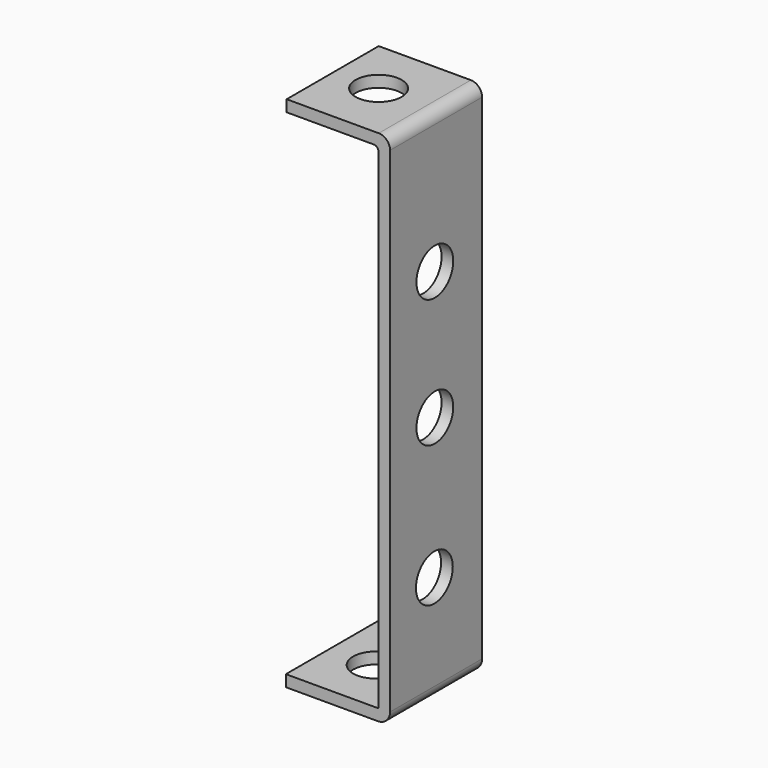
from build123d import *

# Parameters (mm, degrees)
CYLINDER030_R               = 2
CYLINDER030_DEPTH           = 10
CYLINDER030_PITCH_ANGLE     = 90
CYLINDER030_PLACEMENT_ANGLE = 7e-06
CYLINDER031_R               = 2
CYLINDER031_DEPTH           = 10
CYLINDER031_PITCH_ANGLE     = 90
CYLINDER031_PLACEMENT_ANGLE = 7e-06
CYLINDER026_R               = 2
CYLINDER026_DEPTH           = 2
CYLINDER026_ROLL_ANGLE      = -88.507054
CYLINDER026_PITCH_ANGLE     = -87.01751
CYLINDER026_PLACEMENT_ANGLE = -92.244015
CYLINDER028_R               = 2
CYLINDER028_DEPTH           = 2
CYLINDER028_PLACEMENT_ANGLE = 90.00001
CYLINDER029_R               = 2
CYLINDER029_DEPTH           = 2
CYLINDER029_ROLL_ANGLE      = 90
CYLINDER027_R               = 2
CYLINDER027_DEPTH           = 2
CYLINDER027_ROLL_ANGLE      = 90
CYLINDER025_R               = 2
CYLINDER025_DEPTH           = 2
CYLINDER025_ROLL_ANGLE      = -88.507054
CYLINDER025_PITCH_ANGLE     = -87.01751
CYLINDER025_PLACEMENT_ANGLE = -92.244015
PAD006_DEPTH                = 10
CUT033_PITCH_ANGLE          = 90
CUT033_PLACEMENT_ANGLE      = 90


with BuildPart() as cylinder030:
    # Cylinder030 → Cylinder030 (new body)
    with BuildSketch(Plane.XY):
        Circle(CYLINDER030_R)
    extrude(amount=CYLINDER030_DEPTH)


with BuildPart() as cylinder030_1:
    # Cylinder030 pitch: moved
    add(cylinder030.part.rotate(Axis((0, 0, 0), (0, 1, 0)), CYLINDER030_PITCH_ANGLE))


with BuildPart() as cylinder030_2:
    # Cylinder030 placement: moved
    add(cylinder030_1.part.moved(Location((15.49, 3.9, 4.87))).rotate(Axis((15.49, 3.9, 4.87), (0, 0, 1)), CYLINDER030_PLACEMENT_ANGLE))


with BuildPart() as cylinder031:
    # Cylinder031 → Cylinder031 (new body)
    with BuildSketch(Plane.XY):
        Circle(CYLINDER031_R)
    extrude(amount=CYLINDER031_DEPTH)


with BuildPart() as cylinder031_1:
    # Cylinder031 pitch: moved
    add(cylinder031.part.rotate(Axis((0, 0, 0), (0, 1, 0)), CYLINDER031_PITCH_ANGLE))


with BuildPart() as cylinder031_2:
    # Cylinder031 placement: moved
    add(cylinder031_1.part.moved(Location((-28.4147, 3.9, 5.14))).rotate(Axis((-28.4147, 3.9, 5.14), (0, 0, 1)), CYLINDER031_PLACEMENT_ANGLE))


with BuildPart() as cylinder026:
    # Cylinder026 → Cylinder026 (new body)
    with BuildSketch(Plane.XY):
        Circle(CYLINDER026_R)
    extrude(amount=CYLINDER026_DEPTH)


with BuildPart() as cylinder026_1:
    # Cylinder026 roll: moved
    add(cylinder026.part.rotate(Axis((0, 0, 0), (1, 0, 0)), CYLINDER026_ROLL_ANGLE))


with BuildPart() as cylinder026_2:
    # Cylinder026 pitch: moved
    add(cylinder026_1.part.rotate(Axis((0, 0, 0), (0, 1, 0)), CYLINDER026_PITCH_ANGLE))


with BuildPart() as cylinder026_3:
    # Cylinder026 placement: moved
    add(cylinder026_2.part.moved(Location((-26, 5.29, 4.9))).rotate(Axis((-26, 5.29, 4.9), (0, 0, 1)), CYLINDER026_PLACEMENT_ANGLE))


with BuildPart() as cylinder028:
    # Cylinder028 → Cylinder028 (new body)
    with BuildSketch(Plane.XY):
        Circle(CYLINDER028_R)
    extrude(amount=CYLINDER028_DEPTH)


with BuildPart() as cylinder028_1:
    # Cylinder028 placement: moved
    add(cylinder028.part.moved(Location((-11.1555, 0, 4.86401))).rotate(Axis((-11.1555, 0, 4.86401), (1, 0, 0)), CYLINDER028_PLACEMENT_ANGLE))


with BuildPart() as cylinder029:
    # Cylinder029 → Cylinder029 (new body)
    with BuildSketch(Plane.XY):
        Circle(CYLINDER029_R)
    extrude(amount=CYLINDER029_DEPTH)


with BuildPart() as cylinder029_1:
    # Cylinder029 roll: moved
    add(cylinder029.part.rotate(Axis((0, 0, 0), (1, 0, 0)), CYLINDER029_ROLL_ANGLE))


with BuildPart() as cylinder029_2:
    # Cylinder029 placement: moved
    add(cylinder029_1.part.moved(Location((0, 0, 4.86401))))


with BuildPart() as cylinder027:
    # Cylinder027 → Cylinder027 (new body)
    with BuildSketch(Plane.XY):
        Circle(CYLINDER027_R)
    extrude(amount=CYLINDER027_DEPTH)


with BuildPart() as cylinder027_1:
    # Cylinder027 roll: moved
    add(cylinder027.part.rotate(Axis((0, 0, 0), (1, 0, 0)), CYLINDER027_ROLL_ANGLE))


with BuildPart() as cylinder027_2:
    # Cylinder027 placement: moved
    add(cylinder027_1.part.moved(Location((12.2129, 0, 4.81114))))


with BuildPart() as cylinder025:
    # Cylinder025 → Cylinder025 (new body)
    with BuildSketch(Plane.XY):
        Circle(CYLINDER025_R)
    extrude(amount=CYLINDER025_DEPTH)


with BuildPart() as cylinder025_1:
    # Cylinder025 roll: moved
    add(cylinder025.part.rotate(Axis((0, 0, 0), (1, 0, 0)), CYLINDER025_ROLL_ANGLE))


with BuildPart() as cylinder025_2:
    # Cylinder025 pitch: moved
    add(cylinder025_1.part.rotate(Axis((0, 0, 0), (0, 1, 0)), CYLINDER025_PITCH_ANGLE))


with BuildPart() as cylinder025_3:
    # Cylinder025 placement: moved
    add(cylinder025_2.part.moved(Location((25, 5.38, 4.9))).rotate(Axis((25, 5.38, 4.9), (0, 0, 1)), CYLINDER025_PLACEMENT_ANGLE))


with BuildPart() as cut033:
    # Sketch007 → Pad006 (new body)
    with BuildSketch(Plane.XY):
        with BuildLine():
            Line((20.546084, -1.208272), (-22.415471, -1.208272))
            ThreePointArc((-23.400725, -0.223018), (-23.112151, -0.919698), (-22.415471, -1.208272))
            Line((-23.400725, 7.776982), (-23.400725, -0.223018))
            Line((-23.400725, 7.776982), (-22.400725, 7.776982))
            Line((-22.400725, 7.776982), (-22.400725, 0.197829))
            ThreePointArc((-22.400725, 0.197829), (-22.286166, -0.07874), (-22.009596, -0.193299))
            Line((-22.009596, -0.193299), (20.555186, -0.193299))
            ThreePointArc((20.555186, -0.193299), (20.586324, -0.180401), (20.599222, -0.149263))
            Line((20.599222, 7.844865), (20.599222, -0.149263))
            Line((21.599222, 7.844865), (20.599222, 7.844865))
            Line((21.599222, 7.844865), (21.599222, -0.155135))
            ThreePointArc((20.546084, -1.208272), (21.290765, -0.899815), (21.599222, -0.155135))
        make_face()
    extrude(amount=PAD006_DEPTH)

    # Cut005: cut Cylinder025
    add(cylinder025_3.part, mode=Mode.SUBTRACT)

    # Cut006: cut Cylinder027
    add(cylinder027_2.part, mode=Mode.SUBTRACT)

    # Cut007: cut Cylinder029
    add(cylinder029_2.part, mode=Mode.SUBTRACT)

    # Cut008: cut Cylinder028
    add(cylinder028_1.part, mode=Mode.SUBTRACT)

    # Cut009: cut Cylinder026
    add(cylinder026_3.part, mode=Mode.SUBTRACT)

    # Cut018: cut Cylinder031
    add(cylinder031_2.part, mode=Mode.SUBTRACT)

    # Cut033: cut Cylinder030
    add(cylinder030_2.part, mode=Mode.SUBTRACT)


with BuildPart() as cut033_1:
    # Cut033 pitch: moved
    add(cut033.part.rotate(Axis((0, 0, 0), (0, 1, 0)), CUT033_PITCH_ANGLE))


with BuildPart() as cut033_2:
    # Cut033 placement: moved
    add(cut033_1.part.moved(Location((-55.7549, -55.4537, 126))).rotate(Axis((-55.7549, -55.4537, 126), (0, 0, 1)), CUT033_PLACEMENT_ANGLE))


solid = cut033_2.part
